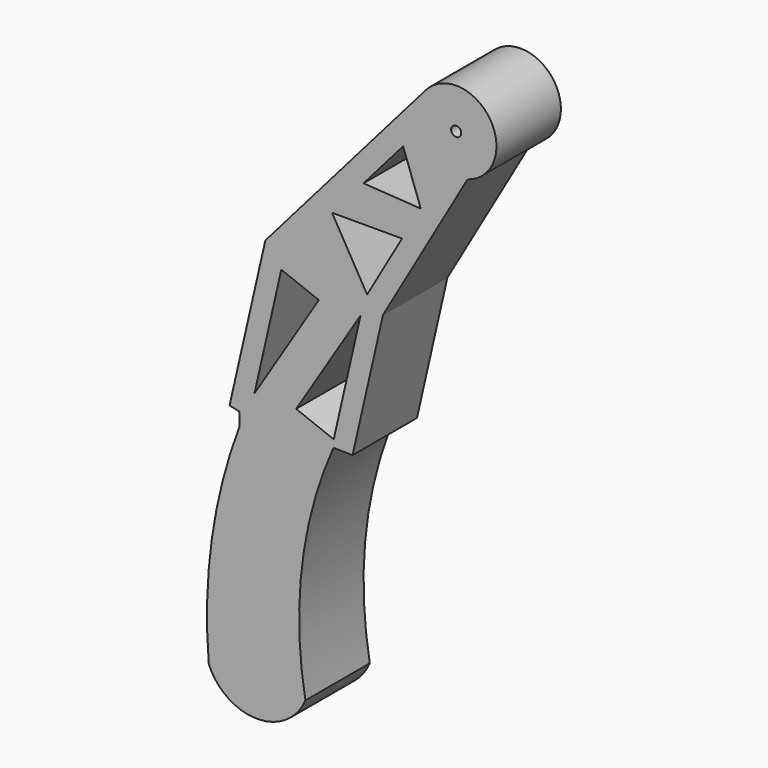
from build123d import *

# Parameters (mm, degrees)
F0_R     = 1.5875
F1_DEPTH = 25.4


with BuildPart() as f1:
    # F0 (on Front) → F1 (new body)
    with BuildSketch(Plane.XZ):
        with BuildLine():
            Line((-66.643977, 55.325659), (-39.966213, 101.641063))
            ThreePointArc((-39.966213, 101.641063), (-32.853768, 120.682896), (-53.126737, 122.161068))
            Line((-53.126737, 122.161068), (-103.755516, 63.949346))
            Line((-103.755516, 63.949346), (-115.051169, 14.421089))
            Line((-115.051169, 14.421089), (-111.94671, 13.713071))
            Line((-111.94671, 13.713071), (-111.94671, 9.4842))
            ThreePointArc((-111.94671, 9.4842), (-120.653601, -24.49801), (-121.603961, -59.565052))
            ThreePointArc((-121.603961, -59.565052), (-106.414516, -69.786291), (-91.123174, -59.718131))
            ThreePointArc((-91.123174, -59.718131), (-92.186619, -22.533159), (-82.273047, 13.321746))
            Line((-82.273047, 13.321746), (-76.245282, 13.22664))
            Line((-76.245282, 13.22664), (-66.643977, 55.325659))
        make_face()
        Polygon((-107.195301, 20.308969), (-98.723561, 57.455161), (-86.889438, 52.846091), align=None, mode=Mode.SUBTRACT)
        Polygon((-94.028392, 20.308969), (-73.722529, 52.846091), (-82.194269, 15.699898), align=None, mode=Mode.SUBTRACT)
        Polygon((-82.718508, 78.461015), (-60.633166, 78.483361), (-71.656485, 59.345721), align=None, mode=Mode.SUBTRACT)
        Polygon((-72.799731, 89.86538), (-60.298136, 104.239406), (-54.735249, 88.722766), align=None, mode=Mode.SUBTRACT)
        with Locations((-43.544053, 113.826672)):
            Circle(F0_R, mode=Mode.SUBTRACT)
    extrude(amount=F1_DEPTH)


solid = f1.part
